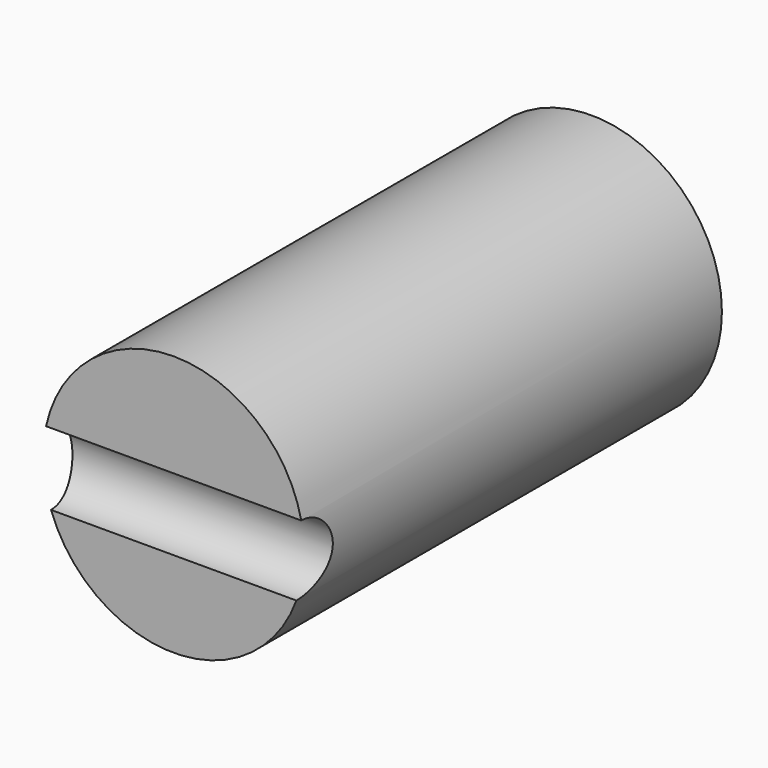
from build123d import *

# Parameters (mm, degrees)
F0_R     = 6.35
F1_DEPTH = 25.4
F2_R     = 1.7526
F3_DEPTH = 12.7


with BuildPart() as f1:
    # F0 (on Front) → F1 (new body)
    with BuildSketch(Plane.XZ):
        with Locations((0, 0.416532)):
            Circle(F0_R)
    extrude(amount=-F1_DEPTH)

    # F2 (on Right) → F3 (cut, symmetric)
    with BuildSketch(Plane.YZ):
        Circle(F2_R)
    extrude(amount=F3_DEPTH, both=True, mode=Mode.SUBTRACT)


solid = f1.part
